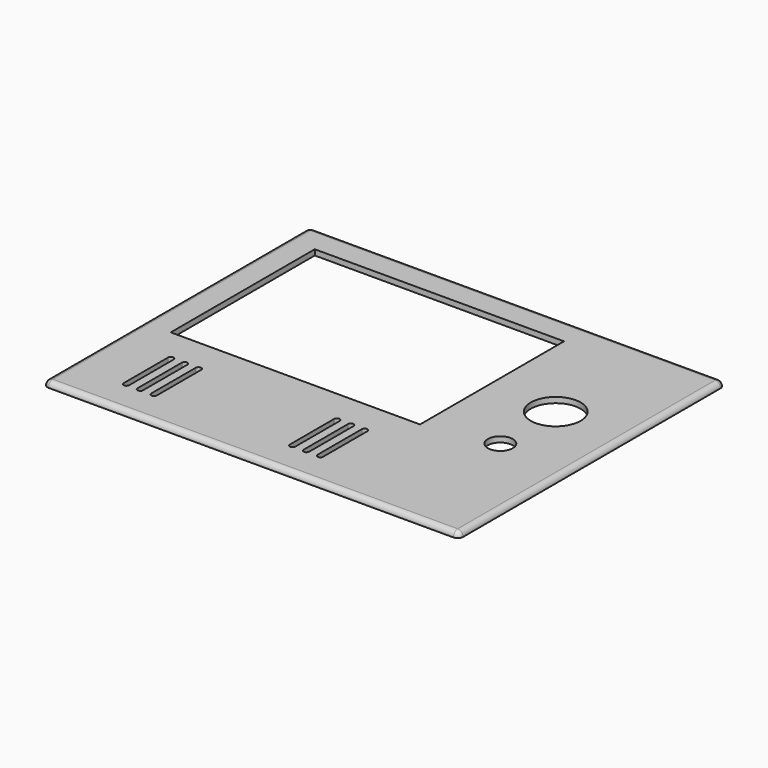
from build123d import *

# Parameters (mm, degrees)
SKETCH_W        = 150
SKETCH_H        = 120
PAD_DEPTH       = 2
SKETCH001_W     = 90
SKETCH001_H     = 65
POCKET_DEPTH    = 2
SKETCH002_R     = 9
POCKET001_DEPTH = 2
SKETCH003_R     = 4.5
POCKET002_DEPTH = 2
POCKET003_DEPTH = 2
POCKET004_DEPTH = 2
POCKET005_DEPTH = 2
POCKET006_DEPTH = 2
POCKET007_DEPTH = 2
POCKET008_DEPTH = 2
FILLET_R        = 1.9


with BuildPart() as part:
    # Sketch → Pad (new body)
    with BuildSketch(Plane.XY):
        with Locations((75, 60)):
            Rectangle(SKETCH_W, SKETCH_H)
    extrude(amount=PAD_DEPTH)

    # Sketch001 → Pocket (cut)
    with BuildSketch(Plane.XY):
        with Locations((55, 77.5)):
            Rectangle(SKETCH001_W, SKETCH001_H)
    extrude(amount=POCKET_DEPTH, mode=Mode.SUBTRACT)

    # Sketch002 → Pocket001 (cut)
    with BuildSketch(Plane.XY):
        with Locations((125, 75)):
            Circle(SKETCH002_R)
    extrude(amount=POCKET001_DEPTH, mode=Mode.SUBTRACT)

    # Sketch003 → Pocket002 (cut)
    with BuildSketch(Plane.XY):
        with Locations((125, 50)):
            Circle(SKETCH003_R)
    extrude(amount=POCKET002_DEPTH, mode=Mode.SUBTRACT)

    # Sketch004 → Pocket003 (cut)
    with BuildSketch(Plane.XY):
        with BuildLine():
            ThreePointArc((21, 32.5), (20, 33.5), (19, 32.5))
            Line((19, 32.5), (19, 12.5))
            ThreePointArc((19, 12.5), (20, 11.5), (21, 12.5))
            Line((21, 32.5), (21, 12.5))
        make_face()
    extrude(amount=POCKET003_DEPTH, mode=Mode.SUBTRACT)

    # Sketch006 → Pocket004 (cut)
    with BuildSketch(Plane.XY):
        with BuildLine():
            ThreePointArc((26, 32.5), (25, 33.5), (24, 32.5))
            Line((24, 32.5), (24, 12.5))
            ThreePointArc((24, 12.5), (25, 11.5), (26, 12.5))
            Line((26, 32.5), (26, 12.5))
        make_face()
    extrude(amount=POCKET004_DEPTH, mode=Mode.SUBTRACT)

    # Sketch008 → Pocket005 (cut)
    with BuildSketch(Plane.XY):
        with BuildLine():
            ThreePointArc((31, 32.5), (30, 33.5), (29, 32.5))
            Line((29, 32.5), (29, 12.5))
            ThreePointArc((29, 12.5), (30, 11.5), (31, 12.5))
            Line((31, 32.5), (31, 12.5))
        make_face()
    extrude(amount=POCKET005_DEPTH, mode=Mode.SUBTRACT)

    # Sketch009 → Pocket006 (cut)
    with BuildSketch(Plane.XY):
        with BuildLine():
            ThreePointArc((81, 32.5), (80, 33.5), (79, 32.5))
            Line((79, 32.5), (79, 12.5))
            ThreePointArc((79, 12.5), (80, 11.5), (81, 12.5))
            Line((81, 32.5), (81, 12.5))
        make_face()
    extrude(amount=POCKET006_DEPTH, mode=Mode.SUBTRACT)

    # Sketch010 → Pocket007 (cut)
    with BuildSketch(Plane.XY):
        with BuildLine():
            ThreePointArc((86, 32.5), (85, 33.5), (84, 32.5))
            Line((84, 32.5), (84, 12.5))
            ThreePointArc((84, 12.5), (85, 11.5), (86, 12.5))
            Line((86, 32.5), (86, 12.5))
        make_face()
    extrude(amount=POCKET007_DEPTH, mode=Mode.SUBTRACT)

    # Sketch011 → Pocket008 (cut)
    with BuildSketch(Plane.XY):
        with BuildLine():
            ThreePointArc((91, 32.5), (90, 33.5), (89, 32.5))
            Line((89, 32.5), (89, 12.5))
            ThreePointArc((89, 12.5), (90, 11.5), (91, 12.5))
            Line((91, 32.5), (91, 12.5))
        make_face()
    extrude(amount=POCKET008_DEPTH, mode=Mode.SUBTRACT)

    # Fillet
    fillet_edges = [part.edges().sort_by_distance(p)[0] for p in [
        (0, 60, 2),
        (75, 0, 2),
        (0, 0, 1),
        (0, 120, 1),
        (75, 120, 2),
        (150, 60, 2),
        (150, 0, 1),
        (150, 120, 1),
    ]]
    fillet(fillet_edges, radius=FILLET_R)


solid = part.part
